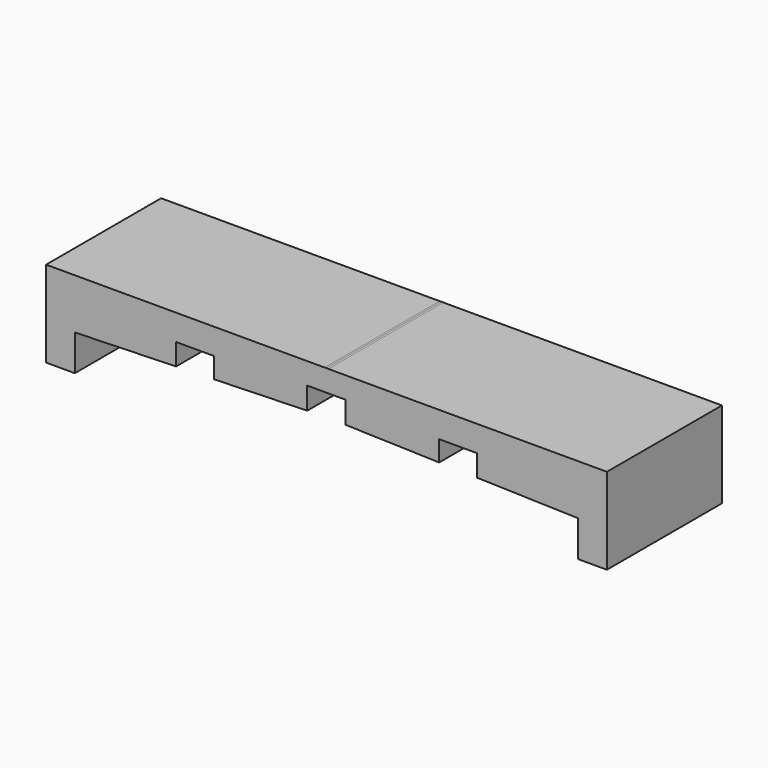
from build123d import *

# Parameters (mm, degrees)
F1_DEPTH = 20


with BuildPart() as f1:
    # F0 (on Front) → F1 (new body)
    with BuildSketch(Plane.XZ):
        Polygon((-15.675, -0.447857), (-2.675, -0.076429), (-2.675, 3), (0, 3), (2.675, 3), (2.675, -0.076429), (15.675, -0.447857), (15.675, 2.402143), (20.925, 2.402143), (20.925, -0.597857), (35, -1), (35, -6), (39, -6), (39, 4.815907), (39, 5.994323), (0.262058, 5.994323), (-0.262058, 5.994323), (-39, 5.994323), (-39, 4.815907), (-39, -6), (-35, -6), (-35, -1), (-20.925, -0.597857), (-20.925, 2.402143), (-15.675, 2.402143), align=None)
        Polygon((0, 6.006831), (-0.262058, 5.994323), (0.262058, 5.994323), align=None)
    extrude(amount=F1_DEPTH)


solid = f1.part
